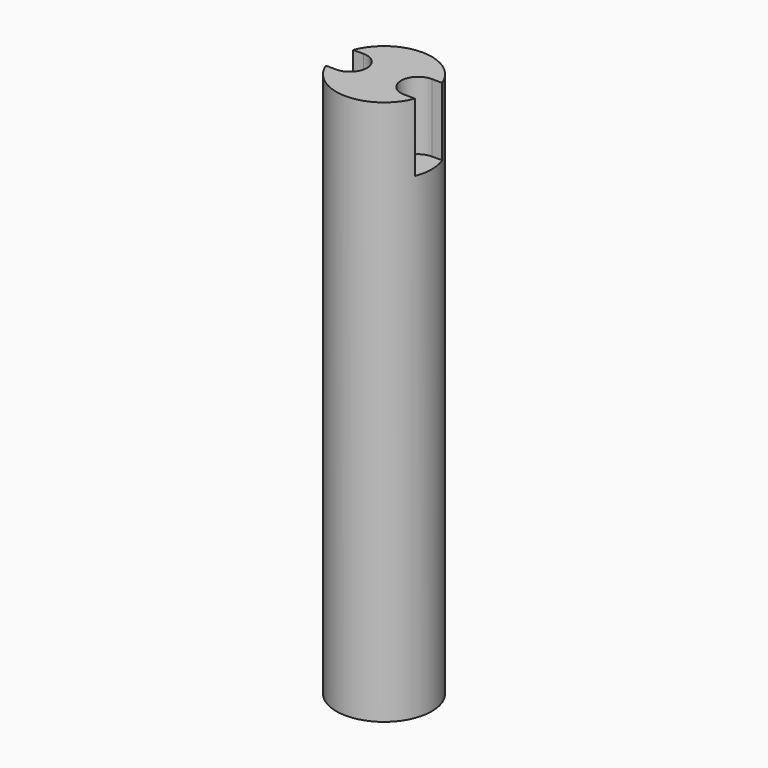
from build123d import *

# Parameters (mm, degrees)
F0_R     = 7
F1_DEPTH = 80
F3_DEPTH = 10


with BuildPart() as f1:
    # F0 (on Top) → F1 (new body)
    with BuildSketch(Plane.XY):
        Circle(F0_R)
    extrude(amount=F1_DEPTH)

    # F2 (on face) → F3 (cut)
    with BuildSketch(Plane.XY.offset(80)):
        with BuildLine():
            Line((-6.5383484153, -2.5), (-5, -2.5))
            ThreePointArc((-5, -2.5), (-2.500008381, -0.0064734131), (-4.9870532172, 2.4999664759))
            Line((-4.9870532172, 2.4999664759), (-6.5352898913, 2.507984457))
            ThreePointArc((-6.5352898913, 2.507984457), (-6.9999986945, 0.0042751059), (-6.5383484153, -2.5))
        make_face()
        with BuildLine():
            Line((5, -2.5), (6.5383484153, -2.5))
            ThreePointArc((6.5383484153, -2.5), (6.8836196477, -1.2711335675), (7, 0))
            ThreePointArc((7, 0), (6.8836196477, 1.2711335675), (6.5383484153, 2.5))
            Line((6.5383484153, 2.5), (5, 2.5))
            ThreePointArc((5, 2.5), (2.5, 0), (5, -2.5))
        make_face()
    extrude(amount=-F3_DEPTH, mode=Mode.SUBTRACT)


solid = f1.part
